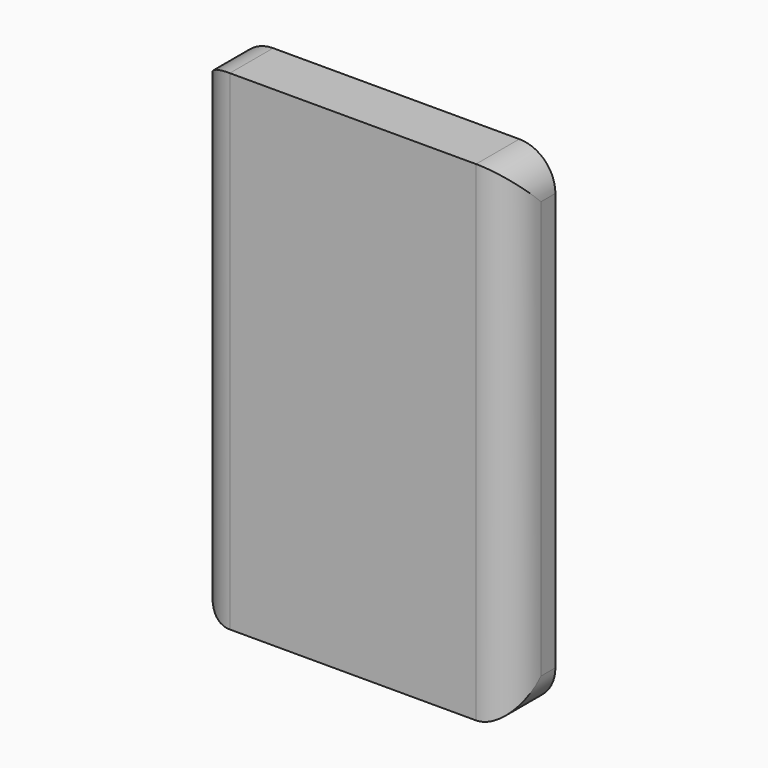
from build123d import *

# Parameters (mm, degrees)
F0_W     = 44.805601
F0_H     = 68.931693
F1_DEPTH = 7.62
F2_R     = 5.08


with BuildPart() as f1:
    # F0 (on Front) → F1 (new body)
    with BuildSketch(Plane.XZ):
        with Locations((-22.4028, 12.555416)):
            Rectangle(F0_W, F0_H)
    extrude(amount=F1_DEPTH)

    # F2
    f2_edges = [f1.edges().sort_by_distance(p)[0] for p in [
        (0, -7.62, 12.555416),
        (-44.805601, -7.62, 12.555416),
        (0, -3.81, 47.021262),
        (-44.805601, -3.81, 47.021262),
        (-44.805601, -3.81, -21.910431),
        (0, -3.81, -21.910431),
    ]]
    fillet(f2_edges, radius=F2_R)


solid = f1.part
